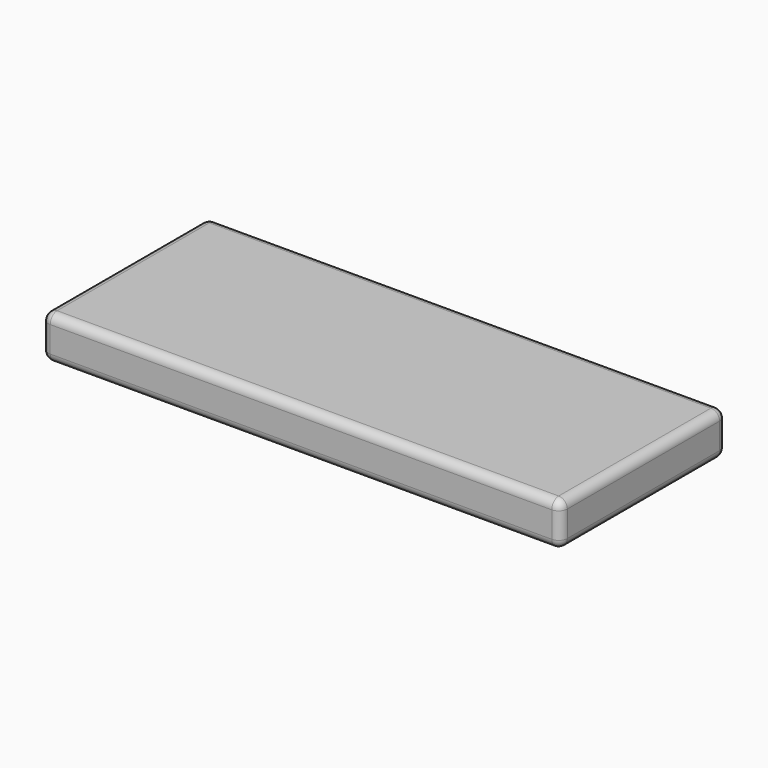
from build123d import *

# Parameters (mm, degrees)
F0_W     = 300
F0_H     = 120
F1_DEPTH = 25
F2_R     = 5
F3_R     = 5


with BuildPart() as f1:
    # F0 (on Top) → F1 (new body)
    with BuildSketch(Plane.XY):
        Rectangle(F0_W, F0_H)
    extrude(amount=F1_DEPTH)

    # F2
    f2_edges = [f1.edges().sort_by_distance(p)[0] for p in [
        (150, -60, 12.5),
        (150, 60, 12.5),
        (-150, -60, 12.5),
        (-150, 60, 12.5),
    ]]
    fillet(f2_edges, radius=F2_R)

    # F3
    f3_edges = [f1.edges().sort_by_distance(p)[0] for p in [
        (0, -60, 0),
        (0, -60, 25),
    ]]
    fillet(f3_edges, radius=F3_R)


solid = f1.part
